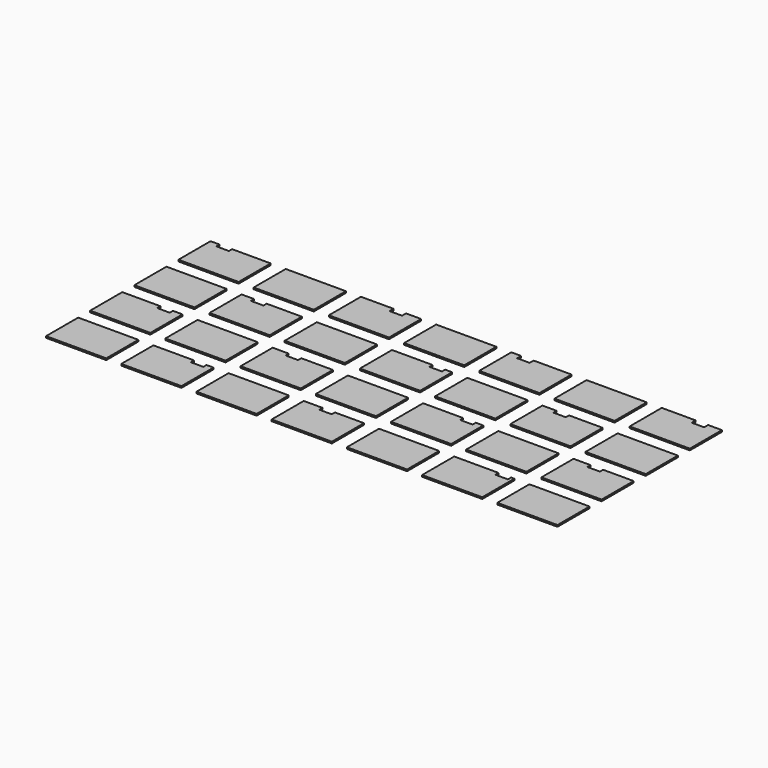
from build123d import *

# Parameters (mm, degrees)
F0_W     = 1200
F0_H     = 800
F1_DEPTH = 32


with BuildPart() as f1:
    # F0 (on Top) → F1 (new body)
    with BuildSketch(Plane.XY):
        Polygon((-1372.09223, 99.39189), (-1552.09223, 99.39189), (-1552.09223, -700.60811), (-352.09223, -700.60811), (-352.09223, 99.39189), (-1122.09223, 99.39189), (-1122.09223, 19.39189), (-1372.09223, 19.39189), align=None)
        with Locations((547.90777, -300.60811)):
            Rectangle(F0_W, F0_H)
        Polygon((2647.90777, -700.60811), (2647.90777, 99.39189), (2347.90777, 99.39189), (2347.90777, 0), (2097.90777, 0), (2097.90777, 99.39189), (1447.90777, 99.39189), (1447.90777, -700.60811), align=None)
        with Locations((3547.90777, -300.60811)):
            Rectangle(F0_W, F0_H)
        Polygon((5647.90777, -700.60811), (5647.90777, 99.39189), (4892.90777, 99.39189), (4892.90777, 0), (4642.90777, 0), (4642.90777, 99.39189), (4447.90777, 99.39189), (4447.90777, -700.60811), align=None)
        with Locations((6547.90777, -300.60811)):
            Rectangle(F0_W, F0_H)
        Polygon((8647.90777, -700.60811), (8647.90777, 99.39189), (8372.90777, 99.39189), (8372.90777, 0), (8122.90777, 0), (8122.90777, 99.39189), (7447.90777, 99.39189), (7447.90777, -700.60811), align=None)
        with Locations((-952.09223, -1400.60811)):
            Rectangle(F0_W, F0_H)
        Polygon((1147.90777, -1800.60811), (1147.90777, -1000.60811), (447.90777, -1000.60811), (447.90777, -1080.60811), (197.90777, -1080.60811), (197.90777, -1000.60811), (-52.09223, -1000.60811), (-52.09223, -1800.60811), align=None)
        with Locations((2047.90777, -1400.60811)):
            Rectangle(F0_W, F0_H)
        Polygon((4147.90777, -1800.60811), (4147.90777, -1000.60811), (4007.90777, -1000.60811), (4007.90777, -1080.60811), (3757.90777, -1080.60811), (3757.90777, -1000.60811), (2947.90777, -1000.60811), (2947.90777, -1800.60811), align=None)
        with Locations((5047.90777, -1400.60811)):
            Rectangle(F0_W, F0_H)
        Polygon((7147.90777, -1800.60811), (7147.90777, -1000.60811), (6477.90777, -1000.60811), (6477.90777, -1080.60811), (6227.90777, -1080.60811), (6227.90777, -1000.60811), (5947.90777, -1000.60811), (5947.90777, -1800.60811), align=None)
        with Locations((8047.90777, -1400.60811)):
            Rectangle(F0_W, F0_H)
        Polygon((-352.09223, -2900.60811), (-352.09223, -2100.60811), (-542.09223, -2100.60811), (-542.09223, -2180.60811), (-792.09223, -2180.60811), (-792.09223, -2100.60811), (-1552.09223, -2100.60811), (-1552.09223, -2900.60811), align=None)
        with Locations((547.90777, -2500.60811)):
            Rectangle(F0_W, F0_H)
        Polygon((2647.90777, -2900.60811), (2647.90777, -2100.60811), (2017.90777, -2100.60811), (2017.90777, -2180.60811), (1767.90777, -2180.60811), (1767.90777, -2100.60811), (1447.90777, -2100.60811), (1447.90777, -2900.60811), align=None)
        with Locations((3547.90777, -2500.60811)):
            Rectangle(F0_W, F0_H)
        Polygon((5647.90777, -2900.60811), (5647.90777, -2100.60811), (5497.90777, -2100.60811), (5497.90777, -2180.60811), (5247.90777, -2180.60811), (5247.90777, -2100.60811), (4447.90777, -2100.60811), (4447.90777, -2900.60811), align=None)
        with Locations((6547.90777, -2500.60811)):
            Rectangle(F0_W, F0_H)
        Polygon((8647.90777, -2900.60811), (8647.90777, -2100.60811), (8037.90777, -2100.60811), (8037.90777, -2180.60811), (7787.90777, -2180.60811), (7787.90777, -2100.60811), (7447.90777, -2100.60811), (7447.90777, -2900.60811), align=None)
        with Locations((-952.09223, -3600.60811)):
            Rectangle(F0_W, F0_H)
        Polygon((1147.90777, -4000.60811), (1147.90777, -3200.60811), (1007.90777, -3200.60811), (1007.90777, -3280.60811), (757.90777, -3280.60811), (757.90777, -3200.60811), (-52.09223, -3200.60811), (-52.09223, -4000.60811), align=None)
        with Locations((2047.90777, -3600.60811)):
            Rectangle(F0_W, F0_H)
        Polygon((4147.90777, -4000.60811), (4147.90777, -3200.60811), (3567.90777, -3200.60811), (3567.90777, -3280.60811), (3317.90777, -3280.60811), (3317.90777, -3200.60811), (2947.90777, -3200.60811), (2947.90777, -4000.60811), align=None)
        with Locations((5047.90777, -3600.60811)):
            Rectangle(F0_W, F0_H)
        Polygon((7147.90777, -4000.60811), (7147.90777, -3200.60811), (7082.90777, -3200.60811), (7082.90777, -3280.60811), (6832.90777, -3280.60811), (6832.90777, -3200.60811), (5947.90777, -3200.60811), (5947.90777, -4000.60811), align=None)
        with Locations((8047.90777, -3600.60811)):
            Rectangle(F0_W, F0_H)
    extrude(amount=F1_DEPTH)


solid = f1.part
